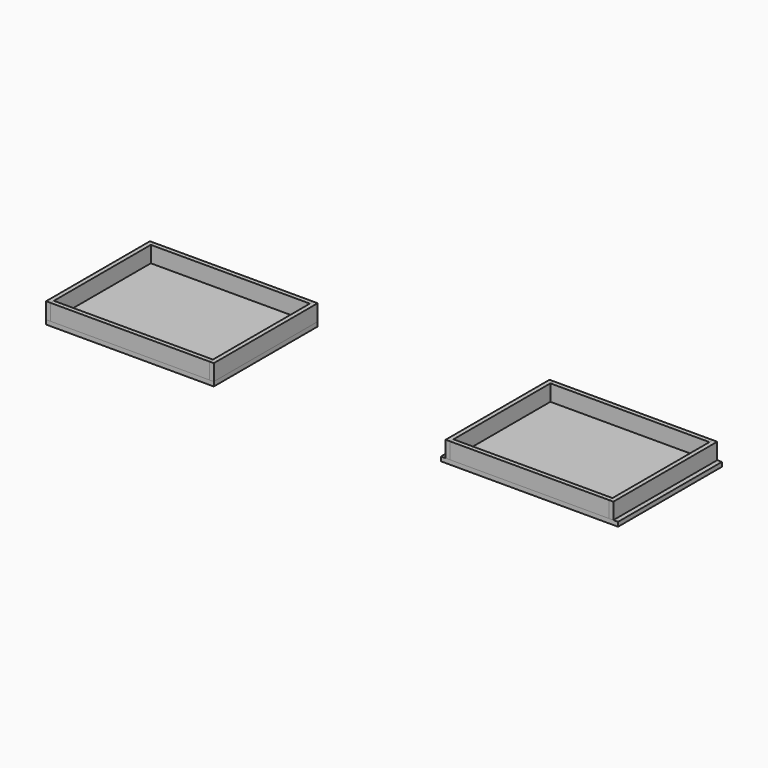
from build123d import *

# Parameters (mm, degrees)
F0_W     = 13
F0_H     = 360
F0_W_2   = 441
F0_H_2   = 12
F0_H_3   = 336
F1_DEPTH = 12
F2_DEPTH = 45
F3_DEPTH = 45
F4_W     = 441
F4_H     = 12
F4_H_2   = 336
F5_DEPTH = 12
F6_DEPTH = 45
F7_DEPTH = 45


with BuildPart() as f1:
    # F0 (on Top) → F1 (new body)
    with BuildSketch(Plane.XY):
        Polygon((-232.5, 180), (-232.5, -180), (-220.5, -180), (-220.5, -168), (-220.5, 168), (-220.5, 180), align=None)
        with Locations((-239, 0)):
            Rectangle(F0_W, F0_H)
        with Locations((0, -174)):
            Rectangle(F0_W_2, F0_H_2)
        Polygon((220.5, -168), (220.5, -180), (232.5, -180), (232.5, 180), (220.5, 180), (220.5, 168), align=None)
        with Locations((0, 174)):
            Rectangle(F0_W_2, F0_H_2)
        with Locations((239, 0)):
            Rectangle(F0_W, F0_H)
        Rectangle(F0_W_2, F0_H_3)
    extrude(amount=-F1_DEPTH)


with BuildPart() as f2:
    # F0 (on Top) → F2 (new body)
    with BuildSketch(Plane.XY):
        Polygon((-232.5, 180), (-232.5, -180), (-220.5, -180), (-220.5, -168), (-220.5, 168), (-220.5, 180), align=None)
        Polygon((220.5, -168), (220.5, -180), (232.5, -180), (232.5, 180), (220.5, 180), (220.5, 168), align=None)
    extrude(amount=F2_DEPTH)


with BuildPart() as f3:
    # F0 (on Top) → F3 (new body)
    with BuildSketch(Plane.XY):
        with Locations((0, 174)):
            Rectangle(F0_W_2, F0_H_2)
        with Locations((0, -174)):
            Rectangle(F0_W_2, F0_H_2)
    extrude(amount=F3_DEPTH)


with BuildPart() as f5:
    # F4 (on Top) → F5 (new body)
    with BuildSketch(Plane.XY):
        with Locations((-1081.234694, -207.27962)):
            Rectangle(F4_W, F4_H)
        with Locations((-1081.234694, 140.72038)):
            Rectangle(F4_W, F4_H)
        Polygon((-1313.734694, 146.72038), (-1313.734694, -213.27962), (-1301.734694, -213.27962), (-1301.734694, -201.27962), (-1301.734694, 134.72038), (-1301.734694, 146.72038), align=None)
        Polygon((-860.734694, -201.27962), (-860.734694, -213.27962), (-848.734694, -213.27962), (-848.734694, 146.72038), (-860.734694, 146.72038), (-860.734694, 134.72038), align=None)
        with Locations((-1081.234694, -33.27962)):
            Rectangle(F4_W, F4_H_2)
    extrude(amount=-F5_DEPTH)


with BuildPart() as f6:
    # F4 (on Top) → F6 (new body)
    with BuildSketch(Plane.XY):
        Polygon((-860.734694, -201.27962), (-860.734694, -213.27962), (-848.734694, -213.27962), (-848.734694, 146.72038), (-860.734694, 146.72038), (-860.734694, 134.72038), align=None)
        Polygon((-1313.734694, 146.72038), (-1313.734694, -213.27962), (-1301.734694, -213.27962), (-1301.734694, -201.27962), (-1301.734694, 134.72038), (-1301.734694, 146.72038), align=None)
    extrude(amount=F6_DEPTH)


with BuildPart() as f7:
    # F4 (on Top) → F7 (new body)
    with BuildSketch(Plane.XY):
        with Locations((-1081.234694, 140.72038)):
            Rectangle(F4_W, F4_H)
        with Locations((-1081.234694, -207.27962)):
            Rectangle(F4_W, F4_H)
    extrude(amount=F7_DEPTH)


solid = Compound([f1.part, f2.part, f3.part, f5.part, f6.part, f7.part])
